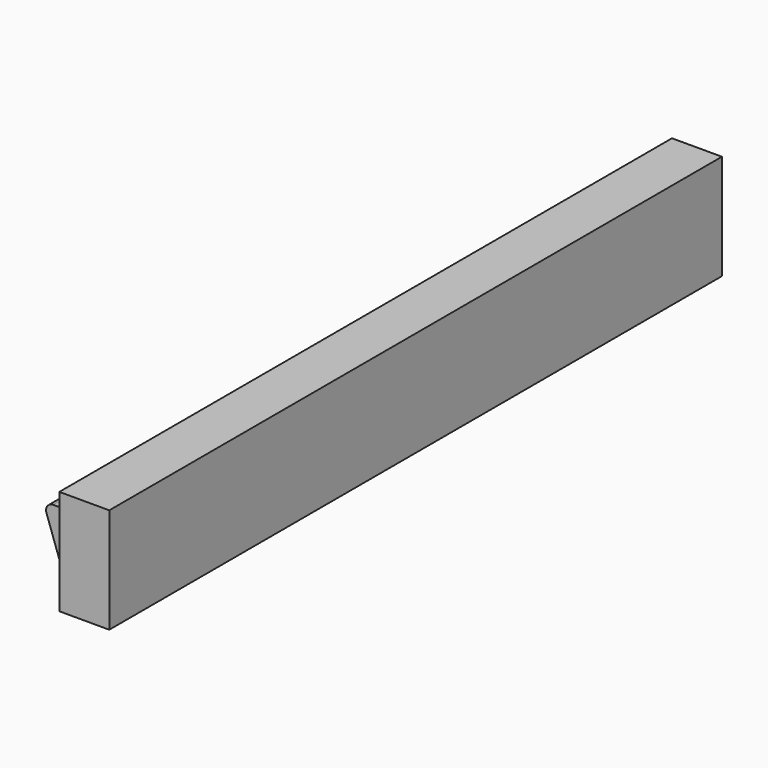
from build123d import *

# Parameters (mm, degrees)
F0_W      = 5
F0_H      = 12
F1_DEPTH  = 200
F2_R      = 2
F3_W      = 14.25
F3_H      = 9.25
F4_DEPTH  = 30
F6_DEPTH  = 9.25
F7_W      = 14.25
F7_H      = 9.25
F8_DEPTH  = 30
F9_W      = 9.25
F9_H      = 4.25
F10_DEPTH = 25


with BuildPart() as f1:
    # F0 (on Front) → F1 (new body)
    with BuildSketch(Plane.XZ):
        Polygon((0.426156, 14.766954), (-6.573844, 14.766954), (0.426156, -5.233046), (0.426156, 6.766954), align=None)
        with Locations((2.926156, 0.766954)):
            Rectangle(F0_W, F0_H)
        Polygon((5.426156, 6.766954), (5.426156, -5.233046), (10.426156, -5.233046), (10.426156, 19.766954), (14.676156, 19.766954), (14.676156, -5.233046), (19.676156, -5.233046), (19.676156, 24.766954), (5.426156, 24.766954), align=None)
    extrude(amount=F1_DEPTH)

    # F2
    f2_edges = [f1.edges().sort_by_distance(p)[0] for p in [
        (-6.573844, -100, 14.766954),
        (0.426156, -100, 14.766954),
    ]]
    fillet(f2_edges, radius=F2_R)

    # F3 (on face) → F4 (join)
    with BuildSketch(Plane.XY.offset(24.766954)):
        with Locations((12.551156, 4.625)):
            Rectangle(F3_W, F3_H)
    extrude(amount=-F4_DEPTH)

    # F5 (on face) → F6 (cut)
    with BuildSketch(Plane(origin=(5.426156, 0, 0), x_dir=(0, -1, 0), z_dir=(-1, 0, 0))):
        Polygon((-4.25, -5.233046), (0, -5.233046), (0, 6.766954), (0, 19.047581), (-4.25, 19.047581), align=None)
    extrude(amount=-F6_DEPTH, mode=Mode.SUBTRACT)

    # F7 (on face) → F8 (join)
    with BuildSketch(Plane.XY.offset(24.766954)):
        with Locations((12.551156, -204.625)):
            Rectangle(F7_W, F7_H)
    extrude(amount=-F8_DEPTH)

    # F9 (on face) → F10 (cut)
    with BuildSketch(Plane(origin=(0, 0, -5.233046), x_dir=(1, 0, 0), z_dir=(0, 0, -1))):
        with Locations((10.051156, 202.125)):
            Rectangle(F9_W, F9_H)
    extrude(amount=-F10_DEPTH, mode=Mode.SUBTRACT)


solid = f1.part
